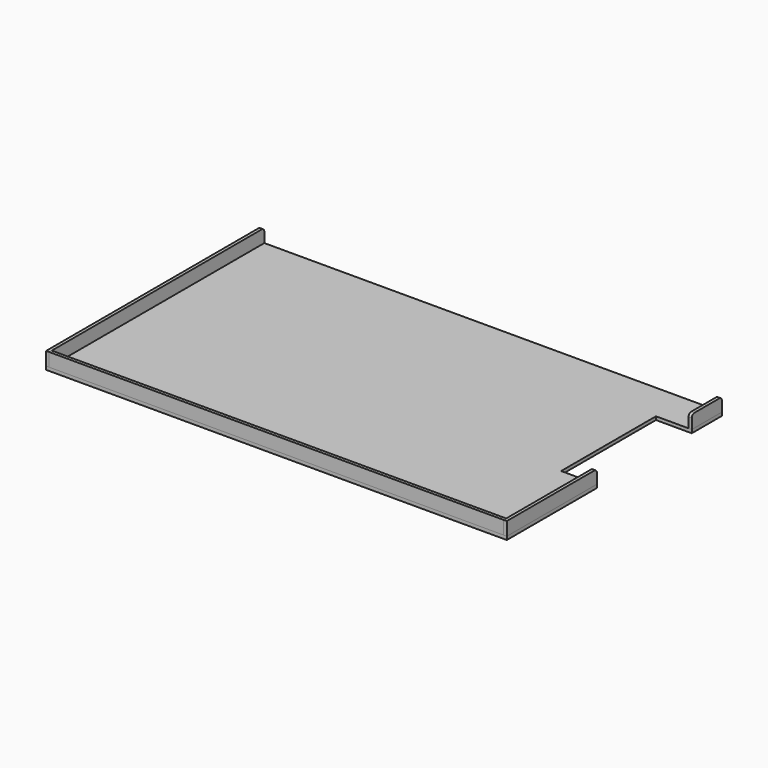
from build123d import *

# Parameters (mm, degrees)
F1_DEPTH = 6.35
F3_DEPTH = 25.4
F4_DEPTH = 25.4
F2_W     = 863.914325
F2_H     = 5.9944
F5_DEPTH = 25.4
F6_DEPTH = 25.4
F7_R     = 6.35
F7_2_R   = 6.35
F7_3_R   = 6.35


with BuildPart() as f1:
    # F0 (on Top) → F1 (new body)
    with BuildSketch(Plane.XY):
        Polygon((-437.9515625, -255.5875), (437.9515625, -255.5875), (437.9515625, -41.52138), (369.8795625, -41.52138), (369.8795625, 183.90362), (437.9515625, 183.90362), (437.9515625, 255.5875), (-437.9515625, 255.5875), align=None)
    extrude(amount=F1_DEPTH)


with BuildPart() as f3:
    # F2 (on face) → F3 (new body)
    with BuildSketch(Plane.XY.offset(6.35)):
        Polygon((-437.9515625, -255.5875), (-431.9571625, -255.5875), (-431.9571625, -249.5931), (-431.9571625, 255.5875), (-437.9515625, 255.5875), align=None)
    extrude(amount=F3_DEPTH)

    # F7#3
    f7_3_edges = [f3.edges().sort_by_distance(p)[0] for p in [
        (-434.954363, 255.5875, 31.75),
    ]]
    fillet(f7_3_edges, radius=F7_3_R)


with BuildPart() as f4:
    # F2 (on face) → F4 (new body)
    with BuildSketch(Plane.XY.offset(6.35)):
        Polygon((431.9571625, -249.5931), (431.9571625, -255.5875), (437.9515625, -255.5875), (437.9515625, -41.52138), (431.9571625, -41.52138), align=None)
    extrude(amount=F4_DEPTH)

    # F7#2
    f7_2_edges = [f4.edges().sort_by_distance(p)[0] for p in [
        (434.954363, -41.52138, 31.75),
    ]]
    fillet(f7_2_edges, radius=F7_2_R)


with BuildPart() as f5:
    # F2 (on face) → F5 (new body)
    with BuildSketch(Plane.XY.offset(6.35)):
        with Locations((0, -252.5903)):
            Rectangle(F2_W, F2_H)
    extrude(amount=F5_DEPTH)


with BuildPart() as f6:
    # F2 (on face) → F6 (new body)
    with BuildSketch(Plane.XY.offset(6.35)):
        Polygon((437.9515625, 255.5875), (431.9571625, 255.5875), (431.9571625, 183.90362), (437.9515625, 183.90362), align=None)
    extrude(amount=F6_DEPTH)

    # F7
    f7_edges = [f6.edges().sort_by_distance(p)[0] for p in [
        (434.954362, 183.90362, 31.75),
        (434.954363, 255.5875, 31.75),
    ]]
    fillet(f7_edges, radius=F7_R)


solid = Compound([f1.part, f3.part, f4.part, f5.part, f6.part])
